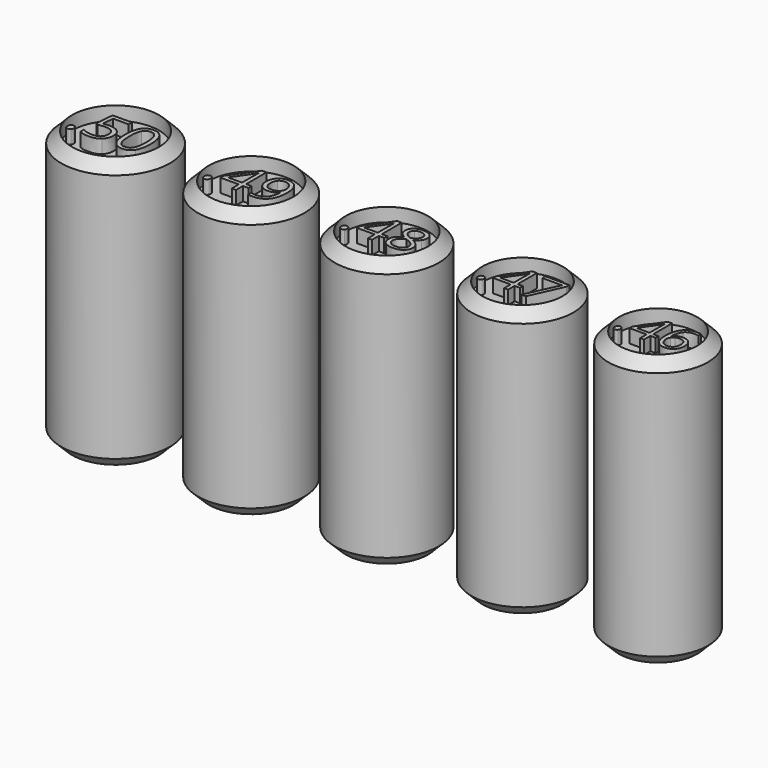
from build123d import *

# Parameters (mm, degrees)
F0_R      = 6.35
F1_DEPTH  = 31.75
F0_R_2    = 6.223
F0_R_3    = 6.096
F0_R_4    = 5.969
F0_R_5    = 5.842
F2_SIZE   = 1.27
F2_2_SIZE = 1.27
F2_3_SIZE = 1.27
F2_4_SIZE = 1.27
F2_5_SIZE = 1.27
F3_R      = 5.08
F3_R_2    = 4.953
F3_R_3    = 4.826
F3_R_4    = 4.699
F3_R_5    = 4.572
F4_DEPTH  = 1.5875


with BuildPart() as f1:
    # F0 (on Top) → F1 (new body)
    with BuildSketch(Plane.XY):
        with Locations((-31.75, 0)):
            Circle(F0_R)
    extrude(amount=F1_DEPTH)

    # F2
    f2_edges = [f1.edges().sort_by_distance(p)[0] for p in [
        (-25.4, 0, 15.875),
        (-38.1, 0, 0),
        (-38.1, 0, 31.75),
    ]]
    chamfer(f2_edges, length=F2_SIZE)


with BuildPart() as f1b:
    # F0 (on Top) → F1, piece 2 (new body)
    with BuildSketch(Plane.XY):
        with Locations((-15.875, 0)):
            Circle(F0_R_2)
    extrude(amount=F1_DEPTH)

    # F2#2
    f2_2_edges = [f1b.edges().sort_by_distance(p)[0] for p in [
        (-9.652, 0, 15.875),
        (-22.098, 0, 0),
        (-22.098, 0, 31.75),
    ]]
    chamfer(f2_2_edges, length=F2_2_SIZE)


with BuildPart() as f1c:
    # F0 (on Top) → F1, piece 3 (new body)
    with BuildSketch(Plane.XY):
        Circle(F0_R_3)
    extrude(amount=F1_DEPTH)

    # F2#3
    f2_3_edges = [f1c.edges().sort_by_distance(p)[0] for p in [
        (6.096, 0, 15.875),
        (-6.096, 0, 0),
        (-6.096, 0, 31.75),
    ]]
    chamfer(f2_3_edges, length=F2_3_SIZE)


with BuildPart() as f1d:
    # F0 (on Top) → F1, piece 4 (new body)
    with BuildSketch(Plane.XY):
        with Locations((15.875, 0)):
            Circle(F0_R_4)
    extrude(amount=F1_DEPTH)

    # F2#4
    f2_4_edges = [f1d.edges().sort_by_distance(p)[0] for p in [
        (21.844, 0, 15.875),
        (9.906, 0, 0),
        (9.906, 0, 31.75),
    ]]
    chamfer(f2_4_edges, length=F2_4_SIZE)


with BuildPart() as f1e:
    # F0 (on Top) → F1, piece 5 (new body)
    with BuildSketch(Plane.XY):
        with Locations((31.75, 0)):
            Circle(F0_R_5)
    extrude(amount=F1_DEPTH)

    # F2#5
    f2_5_edges = [f1e.edges().sort_by_distance(p)[0] for p in [
        (37.592, 0, 15.875),
        (25.908, 0, 0),
        (25.908, 0, 31.75),
    ]]
    chamfer(f2_5_edges, length=F2_5_SIZE)


with BuildPart() as f4_tool:
    # F3 (on face) → F4 (new body)
    with BuildSketch(Plane.XY.offset(31.75)):
        with Locations((-31.75, 0)):
            Circle(F3_R)
        with BuildLine():
            add(Edge.make_bspline(
                [(-35.7075924729, -2.2838575485), (-35.8115171905, -2.1858998004), (-35.8115171905, -1.9621384468)],
                knots=[0, 0, 0, 1, 1, 1], degree=2))
            add(Edge.make_bspline(
                [(-35.8115171905, -1.9621384468), (-35.8115171905, -1.7532945169), (-35.7165429271, -1.6463863146)],
                knots=[0, 0, 0, 1, 1, 1], degree=2))
            add(Edge.make_bspline(
                [(-35.7165429271, -1.6463863146), (-35.6215686637, -1.5394781124), (-35.4445485707, -1.5394781124)],
                knots=[0, 0, 0, 1, 1, 1], degree=2))
            add(Edge.make_bspline(
                [(-35.4445485707, -1.5394781124), (-35.2645449929, -1.5394781124), (-35.1636037601, -1.6463863146)],
                knots=[0, 0, 0, 1, 1, 1], degree=2))
            add(Edge.make_bspline(
                [(-35.1636037601, -1.6463863146), (-35.0626625273, -1.7532945169), (-35.0626625273, -1.9621384468)],
                knots=[0, 0, 0, 1, 1, 1], degree=2))
            add(Edge.make_bspline(
                [(-35.0626625273, -1.9621384468), (-35.0626625273, -2.1640209125), (-35.1650955025, -2.2729181045)],
                knots=[0, 0, 0, 1, 1, 1], degree=2))
            add(Edge.make_bspline(
                [(-35.1650955025, -2.2729181045), (-35.2675284777, -2.3818152966), (-35.4445485707, -2.3818152966)],
                knots=[0, 0, 0, 1, 1, 1], degree=2))
            add(Edge.make_bspline(
                [(-35.4445485707, -2.3818152966), (-35.6036677554, -2.3818152966), (-35.7075924729, -2.2838575485)],
                knots=[0, 0, 0, 1, 1, 1], degree=2))
        make_face(mode=Mode.SUBTRACT)
        with BuildLine():
            add(Edge.make_bspline(
                [(-33.5709201704, 0.4127153854), (-33.2138964996, 0.4843190186), (-32.8588618187, 0.4843190186)],
                knots=[0, 0, 0, 1, 1, 1], degree=2))
            add(Edge.make_bspline(
                [(-32.8588618187, 0.4843190186), (-32.1408364975, 0.4843190186), (-31.729115607, 0.1282898427)],
                knots=[0, 0, 0, 1, 1, 1], degree=2))
            add(Edge.make_bspline(
                [(-31.729115607, 0.1282898427), (-31.3173947165, -0.2277393332), (-31.3173947165, -0.8463151638)],
                knots=[0, 0, 0, 1, 1, 1], degree=2))
            add(Edge.make_bspline(
                [(-31.3173947165, -0.8463151638), (-31.3173947165, -1.5514120512), (-31.7664091659, -1.9526907452)],
                knots=[0, 0, 0, 1, 1, 1], degree=2))
            add(Edge.make_bspline(
                [(-31.7664091659, -1.9526907452), (-32.2154236154, -2.3539694392), (-33.0050525696, -2.3539694392)],
                knots=[0, 0, 0, 1, 1, 1], degree=2))
            add(Edge.make_bspline(
                [(-33.0050525696, -2.3539694392), (-33.772802636, -2.3539694392), (-34.1765675673, -2.1083291978)],
                knots=[0, 0, 0, 1, 1, 1], degree=2))
            Line((-34.1765675673, -2.1083291978), (-34.1765675673, -1.6110817455))
            add(Edge.make_bspline(
                [(-34.1765675673, -1.6110817455), (-33.9597676781, -1.7503110321), (-33.6365568341, -1.8298706245)],
                knots=[0, 0, 0, 1, 1, 1], degree=2))
            add(Edge.make_bspline(
                [(-33.6365568341, -1.8298706245), (-33.3133459901, -1.9094302169), (-32.9990856002, -1.9094302169)],
                knots=[0, 0, 0, 1, 1, 1], degree=2))
            add(Edge.make_bspline(
                [(-32.9990856002, -1.9094302169), (-32.4521134027, -1.9094302169), (-32.1492897042, -1.6513587891)],
                knots=[0, 0, 0, 1, 1, 1], degree=2))
            add(Edge.make_bspline(
                [(-32.1492897042, -1.6513587891), (-31.8464660057, -1.3932873614), (-31.8464660057, -0.9049903632)],
                knots=[0, 0, 0, 1, 1, 1], degree=2))
            add(Edge.make_bspline(
                [(-31.8464660057, -0.9049903632), (-31.8464660057, 0.0457467656), (-33.0110195391, 0.0457467656)],
                knots=[0, 0, 0, 1, 1, 1], degree=2))
            add(Edge.make_bspline(
                [(-33.0110195391, 0.0457467656), (-33.3063845257, 0.0457467656), (-33.8006484933, -0.0447522707)],
                knots=[0, 0, 0, 1, 1, 1], degree=2))
            Line((-33.8006484933, -0.0447522707), (-34.0681676227, 0.1263008529))
            Line((-34.0681676227, 0.1263008529), (-33.8971144991, 2.252530959))
            Line((-33.8971144991, 2.252530959), (-31.6376220758, 2.252530959))
            Line((-31.6376220758, 2.252530959), (-31.6376220758, 1.7771623946))
            Line((-31.6376220758, 1.7771623946), (-33.4555587614, 1.7771623946))
            Line((-33.4555587614, 1.7771623946), (-33.5709201704, 0.4127153854))
        make_face(mode=Mode.SUBTRACT)
        with BuildLine():
            add(Edge.make_bspline(
                [(-28.0126881484, 1.7239569172), (-27.6288131152, 1.1237792422), (-27.6288131152, -0.0129284338)],
                knots=[0, 0, 0, 1, 1, 1], degree=2))
            add(Edge.make_bspline(
                [(-27.6288131152, -0.0129284338), (-27.6288131152, -1.1914048957), (-28.0002569621, -1.7726871675)],
                knots=[0, 0, 0, 1, 1, 1], degree=2))
            add(Edge.make_bspline(
                [(-28.0002569621, -1.7726871675), (-28.371700809, -2.3539694392), (-29.1364673907, -2.3539694392)],
                knots=[0, 0, 0, 1, 1, 1], degree=2))
            add(Edge.make_bspline(
                [(-29.1364673907, -2.3539694392), (-29.8694101354, -2.3539694392), (-30.2517934262, -1.7587642388)],
                knots=[0, 0, 0, 1, 1, 1], degree=2))
            add(Edge.make_bspline(
                [(-30.2517934262, -1.7587642388), (-30.634176717, -1.1635590384), (-30.634176717, -0.0129284338)],
                knots=[0, 0, 0, 1, 1, 1], degree=2))
            add(Edge.make_bspline(
                [(-30.634176717, -0.0129284338), (-30.634176717, 1.1735039875), (-30.2642246125, 1.7488192898)],
                knots=[0, 0, 0, 1, 1, 1], degree=2))
            add(Edge.make_bspline(
                [(-30.2642246125, 1.7488192898), (-29.894272508, 2.3241345921), (-29.1364673907, 2.3241345921)],
                knots=[0, 0, 0, 1, 1, 1], degree=2))
            add(Edge.make_bspline(
                [(-29.1364673907, 2.3241345921), (-28.3965631816, 2.3241345921), (-28.0126881484, 1.7239569172)],
                knots=[0, 0, 0, 1, 1, 1], degree=2))
        make_face(mode=Mode.SUBTRACT)
        with BuildLine():
            add(Edge.make_bspline(
                [(-29.878857837, 1.4275974356), (-30.1120668921, 0.9785829861), (-30.1120668921, -0.0129284338)],
                knots=[0, 0, 0, 1, 1, 1], degree=2))
            add(Edge.make_bspline(
                [(-30.1120668921, -0.0129284338), (-30.1120668921, -1.0044398537), (-29.878857837, -1.4569350353)],
                knots=[0, 0, 0, 1, 1, 1], degree=2))
            add(Edge.make_bspline(
                [(-29.878857837, -1.4569350353), (-29.6456487818, -1.9094302169), (-29.1364673907, -1.9094302169)],
                knots=[0, 0, 0, 1, 1, 1], degree=2))
            add(Edge.make_bspline(
                [(-29.1364673907, -1.9094302169), (-28.6203245352, -1.9094302169), (-28.3891044698, -1.4509680658)],
                knots=[0, 0, 0, 1, 1, 1], degree=2))
            add(Edge.make_bspline(
                [(-28.3891044698, -1.4509680658), (-28.1578844045, -0.9925059148), (-28.1578844045, -0.0129284338)],
                knots=[0, 0, 0, 1, 1, 1], degree=2))
            add(Edge.make_bspline(
                [(-28.1578844045, -0.0129284338), (-28.1578844045, 0.9656545524), (-28.3891044698, 1.4211332187)],
                knots=[0, 0, 0, 1, 1, 1], degree=2))
            add(Edge.make_bspline(
                [(-28.3891044698, 1.4211332187), (-28.6203245352, 1.876611885), (-29.1364673907, 1.876611885)],
                knots=[0, 0, 0, 1, 1, 1], degree=2))
            add(Edge.make_bspline(
                [(-29.1364673907, 1.876611885), (-29.6456487818, 1.876611885), (-29.878857837, 1.4275974356)],
                knots=[0, 0, 0, 1, 1, 1], degree=2))
        make_face()
        with Locations((-15.875, 0)):
            Circle(F3_R_2)
        with BuildLine():
            add(Edge.make_bspline(
                [(-19.7299492008, -2.2316336878), (-19.8314975223, -2.1359158919), (-19.8314975223, -1.9172711805)],
                knots=[0, 0, 0, 1, 1, 1], degree=2))
            add(Edge.make_bspline(
                [(-19.8314975223, -1.9172711805), (-19.8314975223, -1.7132027832), (-19.7386949892, -1.6087391989)],
                knots=[0, 0, 0, 1, 1, 1], degree=2))
            add(Edge.make_bspline(
                [(-19.7386949892, -1.6087391989), (-19.6458924562, -1.5042756145), (-19.4729201956, -1.5042756145)],
                knots=[0, 0, 0, 1, 1, 1], degree=2))
            add(Edge.make_bspline(
                [(-19.4729201956, -1.5042756145), (-19.2970326722, -1.5042756145), (-19.1983996135, -1.6087391989)],
                knots=[0, 0, 0, 1, 1, 1], degree=2))
            add(Edge.make_bspline(
                [(-19.1983996135, -1.6087391989), (-19.0997665548, -1.7132027832), (-19.0997665548, -1.9172711805)],
                knots=[0, 0, 0, 1, 1, 1], degree=2))
            add(Edge.make_bspline(
                [(-19.0997665548, -1.9172711805), (-19.0997665548, -2.1145372979), (-19.1998572449, -2.2209443908)],
                knots=[0, 0, 0, 1, 1, 1], degree=2))
            add(Edge.make_bspline(
                [(-19.1998572449, -2.2209443908), (-19.299947935, -2.3273514837), (-19.4729201956, -2.3273514837)],
                knots=[0, 0, 0, 1, 1, 1], degree=2))
            add(Edge.make_bspline(
                [(-19.4729201956, -2.3273514837), (-19.6284008793, -2.3273514837), (-19.7299492008, -2.2316336878)],
                knots=[0, 0, 0, 1, 1, 1], degree=2))
        make_face(mode=Mode.SUBTRACT)
        Polygon((-15.2069189373, -0.7599118414), (-15.2069189373, -1.2185798583), (-15.8657683344, -1.2185798583), (-15.8657683344, -2.2389218449), (-16.3487302081, -2.2389218449), (-16.3487302081, -1.2185798583), (-18.5079682025, -1.2185798583), (-18.5079682025, -0.7783751726), (-16.4002331845, 2.225317285), (-15.8657683344, 2.225317285), (-15.8657683344, -0.7599118414), align=None, mode=Mode.SUBTRACT)
        with BuildLine():
            add(Edge.make_bspline(
                [(-12.0424011475, 1.3551113336), (-11.8601972213, 0.9105337538), (-11.8601972213, 0.306102596)],
                knots=[0, 0, 0, 1, 1, 1], degree=2))
            add(Edge.make_bspline(
                [(-11.8601972213, 0.306102596), (-11.8601972213, -2.3001423641), (-13.8765873377, -2.3001423641)],
                knots=[0, 0, 0, 1, 1, 1], degree=2))
            add(Edge.make_bspline(
                [(-13.8765873377, -2.3001423641), (-14.2293341388, -2.3001423641), (-14.4353460446, -2.2389218449)],
                knots=[0, 0, 0, 1, 1, 1], degree=2))
            Line((-14.4353460446, -2.2389218449), (-14.4353460446, -1.8045476849))
            add(Edge.make_bspline(
                [(-14.4353460446, -1.8045476849), (-14.1924074764, -1.883259781), (-13.8833896176, -1.883259781)],
                knots=[0, 0, 0, 1, 1, 1], degree=2))
            add(Edge.make_bspline(
                [(-13.8833896176, -1.883259781), (-13.1545739129, -1.883259781), (-12.7823920263, -1.4323657983)],
                knots=[0, 0, 0, 1, 1, 1], degree=2))
            add(Edge.make_bspline(
                [(-12.7823920263, -1.4323657983), (-12.4102101398, -0.9814718157), (-12.3771704945, -0.0495594679)],
                knots=[0, 0, 0, 1, 1, 1], degree=2))
            Line((-12.3771704945, -0.0495594679), (-12.4131254026, -0.0495594679))
            add(Edge.make_bspline(
                [(-12.4131254026, -0.0495594679), (-12.5802671376, -0.3012438246), (-12.8567312282, -0.4334024057)],
                knots=[0, 0, 0, 1, 1, 1], degree=2))
            add(Edge.make_bspline(
                [(-12.8567312282, -0.4334024057), (-13.1331953189, -0.5655609869), (-13.4791398401, -0.5655609869)],
                knots=[0, 0, 0, 1, 1, 1], degree=2))
            add(Edge.make_bspline(
                [(-13.4791398401, -0.5655609869), (-14.0680229295, -0.5655609869), (-14.4144533278, -0.2133000629)],
                knots=[0, 0, 0, 1, 1, 1], degree=2))
            add(Edge.make_bspline(
                [(-14.4144533278, -0.2133000629), (-14.7608837261, 0.138960861), (-14.7608837261, 0.7706011384)],
                knots=[0, 0, 0, 1, 1, 1], degree=2))
            add(Edge.make_bspline(
                [(-14.7608837261, 0.7706011384), (-14.7608837261, 1.4624901808), (-14.3736396483, 1.8633388184)],
                knots=[0, 0, 0, 1, 1, 1], degree=2))
            add(Edge.make_bspline(
                [(-14.3736396483, 1.8633388184), (-13.9863955705, 2.264187456), (-13.3547552931, 2.264187456)],
                knots=[0, 0, 0, 1, 1, 1], degree=2))
            add(Edge.make_bspline(
                [(-13.3547552931, 2.264187456), (-12.9019178019, 2.264187456), (-12.5632614378, 2.0319381847)],
                knots=[0, 0, 0, 1, 1, 1], degree=2))
            add(Edge.make_bspline(
                [(-12.5632614378, 2.0319381847), (-12.2246050737, 1.7996889135), (-12.0424011475, 1.3551113336)],
                knots=[0, 0, 0, 1, 1, 1], degree=2))
        make_face(mode=Mode.SUBTRACT)
        Circle(F3_R_3)
        with BuildLine():
            add(Edge.make_bspline(
                [(-3.7578389721, -2.1721311853), (-3.8566796901, -2.0789655325), (-3.8566796901, -1.8661505895)],
                knots=[0, 0, 0, 1, 1, 1], degree=2))
            add(Edge.make_bspline(
                [(-3.8566796901, -1.8661505895), (-3.8566796901, -1.6675233093), (-3.7663515698, -1.5658450587)],
                knots=[0, 0, 0, 1, 1, 1], degree=2))
            add(Edge.make_bspline(
                [(-3.7663515698, -1.5658450587), (-3.6760234495, -1.4641668081), (-3.5076631835, -1.4641668081)],
                knots=[0, 0, 0, 1, 1, 1], degree=2))
            add(Edge.make_bspline(
                [(-3.5076631835, -1.4641668081), (-3.3364653848, -1.4641668081), (-3.2404621994, -1.5658450587)],
                knots=[0, 0, 0, 1, 1, 1], degree=2))
            add(Edge.make_bspline(
                [(-3.2404621994, -1.5658450587), (-3.144459014, -1.6675233093), (-3.144459014, -1.8661505895)],
                knots=[0, 0, 0, 1, 1, 1], degree=2))
            add(Edge.make_bspline(
                [(-3.144459014, -1.8661505895), (-3.144459014, -2.0581569603), (-3.2418809657, -2.1617268992)],
                knots=[0, 0, 0, 1, 1, 1], degree=2))
            add(Edge.make_bspline(
                [(-3.2418809657, -2.1617268992), (-3.3393029174, -2.2652968382), (-3.5076631835, -2.2652968382)],
                knots=[0, 0, 0, 1, 1, 1], degree=2))
            add(Edge.make_bspline(
                [(-3.5076631835, -2.2652968382), (-3.6589982541, -2.2652968382), (-3.7578389721, -2.1721311853)],
                knots=[0, 0, 0, 1, 1, 1], degree=2))
        make_face(mode=Mode.SUBTRACT)
        Polygon((0.6445928164, -0.7396501576), (0.6445928164, -1.1860886159), (0.0033104547, -1.1860886159), (0.0033104547, -2.1792250168), (-0.4667741084, -2.1792250168), (-0.4667741084, -1.1860886159), (-2.5684399015, -1.1860886159), (-2.5684399015, -0.7576211972), (-0.5169038506, 2.1659831981), (0.0033104547, 2.1659831981), (0.0033104547, -0.7396501576), align=None, mode=Mode.SUBTRACT)
        with BuildLine():
            add(Edge.make_bspline(
                [(1.5620616819, 1.9247929293), (1.9091865002, 2.2038169658), (2.491826522, 2.2038169658)],
                knots=[0, 0, 0, 1, 1, 1], degree=2))
            add(Edge.make_bspline(
                [(2.491826522, 2.2038169658), (3.0829791416, 2.2038169658), (3.4286851935, 1.9290492282)],
                knots=[0, 0, 0, 1, 1, 1], degree=2))
            add(Edge.make_bspline(
                [(3.4286851935, 1.9290492282), (3.7743912454, 1.6542814906), (3.7743912454, 1.1700092647)],
                knots=[0, 0, 0, 1, 1, 1], degree=2))
            add(Edge.make_bspline(
                [(3.7743912454, 1.1700092647), (3.7743912454, 0.850313928), (3.5767098094, 0.5873692428)],
                knots=[0, 0, 0, 1, 1, 1], degree=2))
            add(Edge.make_bspline(
                [(3.5767098094, 0.5873692428), (3.3790283735, 0.3244245576), (2.9439400455, 0.108772082)],
                knots=[0, 0, 0, 1, 1, 1], degree=2))
            add(Edge.make_bspline(
                [(2.9439400455, 0.108772082), (3.4698294158, -0.1428224729), (3.6916298787, -0.4190089768)],
                knots=[0, 0, 0, 1, 1, 1], degree=2))
            add(Edge.make_bspline(
                [(3.6916298787, -0.4190089768), (3.9134303415, -0.6951954806), (3.9134303415, -1.0593454943)],
                knots=[0, 0, 0, 1, 1, 1], degree=2))
            add(Edge.make_bspline(
                [(3.9134303415, -1.0593454943), (3.9134303415, -1.5965849949), (3.5379301976, -1.9176990979)],
                knots=[0, 0, 0, 1, 1, 1], degree=2))
            add(Edge.make_bspline(
                [(3.5379301976, -1.9176990979), (3.1624300536, -2.2388132008), (2.5097975616, -2.2388132008)],
                knots=[0, 0, 0, 1, 1, 1], degree=2))
            add(Edge.make_bspline(
                [(2.5097975616, -2.2388132008), (1.8183854578, -2.2388132008), (1.4457228464, -1.9356701375)],
                knots=[0, 0, 0, 1, 1, 1], degree=2))
            add(Edge.make_bspline(
                [(1.4457228464, -1.9356701375), (1.073060235, -1.6325270742), (1.073060235, -1.0763706897)],
                knots=[0, 0, 0, 1, 1, 1], degree=2))
            add(Edge.make_bspline(
                [(1.073060235, -1.0763706897), (1.073060235, -0.3348288437), (1.9772872819, 0.0794509121)],
                knots=[0, 0, 0, 1, 1, 1], degree=2))
            add(Edge.make_bspline(
                [(1.9772872819, 0.0794509121), (1.5696284355, 0.3092910506), (1.3922826496, 0.5769649567)],
                knots=[0, 0, 0, 1, 1, 1], degree=2))
            add(Edge.make_bspline(
                [(1.3922826496, 0.5769649567), (1.2149368637, 0.8446388628), (1.2149368637, 1.1756843298)],
                knots=[0, 0, 0, 1, 1, 1], degree=2))
            add(Edge.make_bspline(
                [(1.2149368637, 1.1756843298), (1.2149368637, 1.6457688929), (1.5620616819, 1.9247929293)],
                knots=[0, 0, 0, 1, 1, 1], degree=2))
        make_face(mode=Mode.SUBTRACT)
        with Locations((15.875, 0)):
            Circle(F3_R_4)
        with BuildLine():
            add(Edge.make_bspline(
                [(12.215208755, -2.1138608134), (12.1190195737, -2.0231944558), (12.1190195737, -1.816088563)],
                knots=[0, 0, 0, 1, 1, 1], degree=2))
            add(Edge.make_bspline(
                [(12.1190195737, -1.816088563), (12.1190195737, -1.6227897296), (12.2069245193, -1.5238391363)],
                knots=[0, 0, 0, 1, 1, 1], degree=2))
            add(Edge.make_bspline(
                [(12.2069245193, -1.5238391363), (12.294829465, -1.4248885431), (12.458673238, -1.4248885431)],
                knots=[0, 0, 0, 1, 1, 1], degree=2))
            add(Edge.make_bspline(
                [(12.458673238, -1.4248885431), (12.625278423, -1.4248885431), (12.7187061924, -1.5238391363)],
                knots=[0, 0, 0, 1, 1, 1], degree=2))
            add(Edge.make_bspline(
                [(12.7187061924, -1.5238391363), (12.8121339619, -1.6227897296), (12.8121339619, -1.816088563)],
                knots=[0, 0, 0, 1, 1, 1], degree=2))
            add(Edge.make_bspline(
                [(12.8121339619, -1.816088563), (12.8121339619, -2.0029441019), (12.7173254865, -2.1037356364)],
                knots=[0, 0, 0, 1, 1, 1], degree=2))
            add(Edge.make_bspline(
                [(12.7173254865, -2.1037356364), (12.6225170111, -2.2045271709), (12.458673238, -2.2045271709)],
                knots=[0, 0, 0, 1, 1, 1], degree=2))
            add(Edge.make_bspline(
                [(12.458673238, -2.2045271709), (12.3113979364, -2.2045271709), (12.215208755, -2.1138608134)],
                knots=[0, 0, 0, 1, 1, 1], degree=2))
        make_face(mode=Mode.SUBTRACT)
        Polygon((16.4995393259, -0.7198080366), (16.4995393259, -1.1542701764), (15.8754602353, -1.1542701764), (15.8754602353, -2.1207643432), (15.4179863297, -2.1207643432), (15.4179863297, -1.1542701764), (13.3727005786, -1.1542701764), (13.3727005786, -0.7372969787), (15.369201386, 2.1078777543), (15.8754602353, 2.1078777543), (15.8754602353, -0.7198080366), align=None, mode=Mode.SUBTRACT)
        Polygon((17.9667695181, -2.1207643432), (17.437498903, -2.1207643432), (19.1799498151, 1.6448810248), (16.8879779339, 1.6448810248), (16.8879779339, 2.0848659884), (19.6862086644, 2.0848659884), (19.6862086644, 1.7019502042), align=None, mode=Mode.SUBTRACT)
        with Locations((31.75, 0)):
            Circle(F3_R_5)
        with BuildLine():
            add(Edge.make_bspline(
                [(28.1873491822, -2.0543948784), (28.0938659404, -1.9662790954), (28.0938659404, -1.7649993882)],
                knots=[0, 0, 0, 1, 1, 1], degree=2))
            add(Edge.make_bspline(
                [(28.0938659404, -1.7649993882), (28.0938659404, -1.5771383281), (28.1792979939, -1.4809713569)],
                knots=[0, 0, 0, 1, 1, 1], degree=2))
            add(Edge.make_bspline(
                [(28.1792979939, -1.4809713569), (28.2647300474, -1.3848043857), (28.4239646602, -1.3848043857)],
                knots=[0, 0, 0, 1, 1, 1], degree=2))
            add(Edge.make_bspline(
                [(28.4239646602, -1.3848043857), (28.5858830025, -1.3848043857), (28.6766825148, -1.4809713569)],
                knots=[0, 0, 0, 1, 1, 1], degree=2))
            add(Edge.make_bspline(
                [(28.6766825148, -1.4809713569), (28.7674820272, -1.5771383281), (28.7674820272, -1.7649993882)],
                knots=[0, 0, 0, 1, 1, 1], degree=2))
            add(Edge.make_bspline(
                [(28.7674820272, -1.7649993882), (28.7674820272, -1.946598413), (28.6753406501, -2.0445545371)],
                knots=[0, 0, 0, 1, 1, 1], degree=2))
            add(Edge.make_bspline(
                [(28.6753406501, -2.0445545371), (28.583199273, -2.1425106613), (28.4239646602, -2.1425106613)],
                knots=[0, 0, 0, 1, 1, 1], degree=2))
            add(Edge.make_bspline(
                [(28.4239646602, -2.1425106613), (28.280832424, -2.1425106613), (28.1873491822, -2.0543948784)],
                knots=[0, 0, 0, 1, 1, 1], degree=2))
        make_face(mode=Mode.SUBTRACT)
        Polygon((32.3511553922, -0.6995588047), (32.3511553922, -1.1217989016), (31.7446325411, -1.1217989016), (31.7446325411, -2.0611042019), (31.3000280323, -2.0611042019), (31.3000280323, -1.1217989016), (29.3122791014, -1.1217989016), (29.3122791014, -0.7165557577), (31.252615479, 2.0485801313), (31.7446325411, 2.0485801313), (31.7446325411, -0.6995588047), align=None, mode=Mode.SUBTRACT)
        with BuildLine():
            add(Edge.make_bspline(
                [(33.1647726976, -1.640653258), (32.7930761716, -1.163843996), (32.7930761716, -0.3139963433)],
                knots=[0, 0, 0, 1, 1, 1], degree=2))
            add(Edge.make_bspline(
                [(32.7930761716, -0.3139963433), (32.7930761716, 0.8909981706), (33.2613869571, 1.4876806805)],
                knots=[0, 0, 0, 1, 1, 1], degree=2))
            add(Edge.make_bspline(
                [(33.2613869571, 1.4876806805), (33.7296977426, 2.0843631903), (34.646638631, 2.0843631903)],
                knots=[0, 0, 0, 1, 1, 1], degree=2))
            add(Edge.make_bspline(
                [(34.646638631, 2.0843631903), (34.9624241273, 2.0843631903), (35.144023152, 2.0315831782)],
                knots=[0, 0, 0, 1, 1, 1], degree=2))
            Line((35.144023152, 2.0315831782), (35.144023152, 1.6317074932))
            add(Edge.make_bspline(
                [(35.144023152, 1.6317074932), (34.9284302211, 1.7014844584), (34.6520060899, 1.7014844584)],
                knots=[0, 0, 0, 1, 1, 1], degree=2))
            add(Edge.make_bspline(
                [(34.6520060899, 1.7014844584), (33.9944923796, 1.7014844584), (33.647843995, 1.2922157204)],
                knots=[0, 0, 0, 1, 1, 1], degree=2))
            add(Edge.make_bspline(
                [(33.647843995, 1.2922157204), (33.3011956103, 0.8829469823), (33.2680962807, 0.0044728824)],
                knots=[0, 0, 0, 1, 1, 1], degree=2))
            Line((33.2680962807, 0.0044728824), (33.3011956103, 0.0044728824))
            add(Edge.make_bspline(
                [(33.3011956103, 0.0044728824), (33.6089299183, 0.4857550268), (34.2744948168, 0.4857550268)],
                knots=[0, 0, 0, 1, 1, 1], degree=2))
            add(Edge.make_bspline(
                [(34.2744948168, 0.4857550268), (34.8255539263, 0.4857550268), (35.1426812873, 0.1529725775)],
                knots=[0, 0, 0, 1, 1, 1], degree=2))
            add(Edge.make_bspline(
                [(35.1426812873, 0.1529725775), (35.4598086482, -0.1798098718), (35.4598086482, -0.7496550873)],
                knots=[0, 0, 0, 1, 1, 1], degree=2))
            add(Edge.make_bspline(
                [(35.4598086482, -0.7496550873), (35.4598086482, -1.3874881151), (35.1118183988, -1.7524753175)],
                knots=[0, 0, 0, 1, 1, 1], degree=2))
            add(Edge.make_bspline(
                [(35.1118183988, -1.7524753175), (34.7638281495, -2.11746252), (34.1707239455, -2.11746252)],
                knots=[0, 0, 0, 1, 1, 1], degree=2))
            add(Edge.make_bspline(
                [(34.1707239455, -2.11746252), (33.5364692237, -2.11746252), (33.1647726976, -1.640653258)],
                knots=[0, 0, 0, 1, 1, 1], degree=2))
        make_face(mode=Mode.SUBTRACT)
        with BuildLine():
            add(Edge.make_bspline(
                [(33.6970457012, -1.5775856164), (33.9023510026, -1.7229542938), (34.1653564867, -1.7229542938)],
                knots=[0, 0, 0, 1, 1, 1], degree=2))
            add(Edge.make_bspline(
                [(34.1653564867, -1.7229542938), (34.5625484422, -1.7229542938), (34.781719679, -1.4724728804)],
                knots=[0, 0, 0, 1, 1, 1], degree=2))
            add(Edge.make_bspline(
                [(34.781719679, -1.4724728804), (35.0008909157, -1.221991467), (35.0008909157, -0.7496550873)],
                knots=[0, 0, 0, 1, 1, 1], degree=2))
            add(Edge.make_bspline(
                [(35.0008909157, -0.7496550873), (35.0008909157, -0.3444119435), (34.7969274791, -0.1122693478)],
                knots=[0, 0, 0, 1, 1, 1], degree=2))
            add(Edge.make_bspline(
                [(34.7969274791, -0.1122693478), (34.5929640424, 0.1198732479), (34.1877208986, 0.1198732479)],
                knots=[0, 0, 0, 1, 1, 1], degree=2))
            add(Edge.make_bspline(
                [(34.1877208986, 0.1198732479), (33.9363449087, 0.1198732479), (33.7265667249, 0.0161023766)],
                knots=[0, 0, 0, 1, 1, 1], degree=2))
            add(Edge.make_bspline(
                [(33.7265667249, 0.0161023766), (33.5167885412, -0.0876684947), (33.3924424109, -0.2692675194)],
                knots=[0, 0, 0, 1, 1, 1], degree=2))
            add(Edge.make_bspline(
                [(33.3924424109, -0.2692675194), (33.2680962807, -0.4508665442), (33.2680962807, -0.6467787925)],
                knots=[0, 0, 0, 1, 1, 1], degree=2))
            add(Edge.make_bspline(
                [(33.2680962807, -0.6467787925), (33.2680962807, -0.934832418), (33.3799183403, -1.1835246785)],
                knots=[0, 0, 0, 1, 1, 1], degree=2))
            add(Edge.make_bspline(
                [(33.3799183403, -1.1835246785), (33.4917403998, -1.4322169389), (33.6970457012, -1.5775856164)],
                knots=[0, 0, 0, 1, 1, 1], degree=2))
        make_face()
        with BuildLine():
            Line((29.7765642928, -0.6995588047), (31.3000280323, -0.6995588047))
            Line((31.3000280323, -0.6995588047), (31.3000280323, 0.6593028632))
            add(Edge.make_bspline(
                [(31.3000280323, 0.6593028632), (31.3000280323, 1.0591785482), (31.3286544795, 1.561930528)],
                knots=[0, 0, 0, 1, 1, 1], degree=2))
            Line((31.3286544795, 1.561930528), (31.3062900676, 1.561930528))
            add(Edge.make_bspline(
                [(31.3062900676, 1.561930528), (31.1721035962, 1.2935575851), (31.0540195013, 1.1173260192)],
                knots=[0, 0, 0, 1, 1, 1], degree=2))
            Line((31.0540195013, 1.1173260192), (29.7765642928, -0.6995588047))
        make_face()
        with BuildLine():
            Line((13.8504248382, -0.7198080366), (15.4179863297, -0.7198080366))
            Line((15.4179863297, -0.7198080366), (15.4179863297, 0.678386858))
            add(Edge.make_bspline(
                [(15.4179863297, 0.678386858), (15.4179863297, 1.0898372319), (15.44744139, 1.6071417288)],
                knots=[0, 0, 0, 1, 1, 1], degree=2))
            Line((15.44744139, 1.6071417288), (15.4244296241, 1.6071417288))
            add(Edge.make_bspline(
                [(15.4244296241, 1.6071417288), (15.2863590289, 1.3310005383), (15.1648569051, 1.1496678232)],
                knots=[0, 0, 0, 1, 1, 1], degree=2))
            Line((15.1648569051, 1.1496678232), (13.8504248382, -0.7198080366))
        make_face()
        with BuildLine():
            add(Edge.make_bspline(
                [(1.7559597412, -0.5400770332), (1.5582783052, -0.7689713275), (1.5582783052, -1.0886666642)],
                knots=[0, 0, 0, 1, 1, 1], degree=2))
            add(Edge.make_bspline(
                [(1.5582783052, -1.0886666642), (1.5582783052, -1.4433582359), (1.804670717, -1.641512594)],
                knots=[0, 0, 0, 1, 1, 1], degree=2))
            add(Edge.make_bspline(
                [(1.804670717, -1.641512594), (2.0510631289, -1.8396669521), (2.4975015872, -1.8396669521)],
                knots=[0, 0, 0, 1, 1, 1], degree=2))
            add(Edge.make_bspline(
                [(2.4975015872, -1.8396669521), (2.9382649803, -1.8396669521), (3.183711548, -1.6325270742)],
                knots=[0, 0, 0, 1, 1, 1], degree=2))
            add(Edge.make_bspline(
                [(3.183711548, -1.6325270742), (3.4291581156, -1.4253871963), (3.4291581156, -1.0650205594)],
                knots=[0, 0, 0, 1, 1, 1], degree=2))
            add(Edge.make_bspline(
                [(3.4291581156, -1.0650205594), (3.4291581156, -0.7784297694), (3.1983721329, -0.5552105403)],
                knots=[0, 0, 0, 1, 1, 1], degree=2))
            add(Edge.make_bspline(
                [(3.1983721329, -0.5552105403), (2.9675861502, -0.3319913112), (2.3944045703, -0.1220139007)],
                knots=[0, 0, 0, 1, 1, 1], degree=2))
            add(Edge.make_bspline(
                [(2.3944045703, -0.1220139007), (1.9536411772, -0.3111827389), (1.7559597412, -0.5400770332)],
                knots=[0, 0, 0, 1, 1, 1], degree=2))
        make_face()
        with BuildLine():
            add(Edge.make_bspline(
                [(3.0758853101, 1.6296895416), (2.8616516008, 1.8056165612), (2.4861514569, 1.8056165612)],
                knots=[0, 0, 0, 1, 1, 1], degree=2))
            add(Edge.make_bspline(
                [(2.4861514569, 1.8056165612), (2.1163263781, 1.8056165612), (1.9063489676, 1.6282707753)],
                knots=[0, 0, 0, 1, 1, 1], degree=2))
            add(Edge.make_bspline(
                [(1.9063489676, 1.6282707753), (1.6963715571, 1.4509249895), (1.6963715571, 1.1548757576)],
                knots=[0, 0, 0, 1, 1, 1], degree=2))
            add(Edge.make_bspline(
                [(1.6963715571, 1.1548757576), (1.6963715571, 0.8834184747), (1.8708798104, 0.6881016492)],
                knots=[0, 0, 0, 1, 1, 1], degree=2))
            add(Edge.make_bspline(
                [(1.8708798104, 0.6881016492), (2.0453880637, 0.4927848237), (2.5154726268, 0.2979409203)],
                knots=[0, 0, 0, 1, 1, 1], degree=2))
            add(Edge.make_bspline(
                [(2.5154726268, 0.2979409203), (2.9382649803, 0.474813784), (3.1141919999, 0.6791161294)],
                knots=[0, 0, 0, 1, 1, 1], degree=2))
            add(Edge.make_bspline(
                [(3.1141919999, 0.6791161294), (3.2901190195, 0.8834184747), (3.2901190195, 1.1548757576)],
                knots=[0, 0, 0, 1, 1, 1], degree=2))
            add(Edge.make_bspline(
                [(3.2901190195, 1.1548757576), (3.2901190195, 1.453762522), (3.0758853101, 1.6296895416)],
                knots=[0, 0, 0, 1, 1, 1], degree=2))
        make_face()
        with BuildLine():
            Line((-2.0775467662, -0.7396501576), (-0.4667741084, -0.7396501576))
            Line((-0.4667741084, -0.7396501576), (-0.4667741084, 0.697087169))
            add(Edge.make_bspline(
                [(-0.4667741084, 0.697087169), (-0.4667741084, 1.1198795225), (-0.4365070943, 1.651443958)],
                knots=[0, 0, 0, 1, 1, 1], degree=2))
            Line((-0.4365070943, 1.651443958), (-0.4601531991, 1.651443958))
            add(Edge.make_bspline(
                [(-0.4601531991, 1.651443958), (-0.6020298278, 1.3676907006), (-0.726881261, 1.1813593949)],
                knots=[0, 0, 0, 1, 1, 1], degree=2))
            Line((-0.726881261, 1.1813593949), (-2.0775467662, -0.7396501576))
        make_face()
        with BuildLine():
            Line((-18.0036277349, -0.7599118414), (-16.3487302081, -0.7599118414))
            Line((-16.3487302081, -0.7599118414), (-16.3487302081, 0.7161828992))
            add(Edge.make_bspline(
                [(-16.3487302081, 0.7161828992), (-16.3487302081, 1.1505570592), (-16.3176340713, 1.6966829606)],
                knots=[0, 0, 0, 1, 1, 1], degree=2))
            Line((-16.3176340713, 1.6966829606), (-16.3419279282, 1.6966829606))
            add(Edge.make_bspline(
                [(-16.3419279282, 1.6966829606), (-16.4876910691, 1.4051566787), (-16.6159626331, 1.2137210869)],
                knots=[0, 0, 0, 1, 1, 1], degree=2))
            Line((-16.6159626331, 1.2137210869), (-18.0036277349, -0.7599118414))
        make_face()
        with BuildLine():
            add(Edge.make_bspline(
                [(-12.8431266684, 1.6787055065), (-13.066144274, 1.8337003131), (-13.3547552931, 1.8337003131)],
                knots=[0, 0, 0, 1, 1, 1], degree=2))
            add(Edge.make_bspline(
                [(-13.3547552931, 1.8337003131), (-13.7891294531, 1.8337003131), (-14.0257516186, 1.5543209596)],
                knots=[0, 0, 0, 1, 1, 1], degree=2))
            add(Edge.make_bspline(
                [(-14.0257516186, 1.5543209596), (-14.262373784, 1.2749416061), (-14.262373784, 0.7764316641)],
                knots=[0, 0, 0, 1, 1, 1], degree=2))
            add(Edge.make_bspline(
                [(-14.262373784, 0.7764316641), (-14.262373784, 0.3391422413), (-14.0437290726, 0.088915516)],
                knots=[0, 0, 0, 1, 1, 1], degree=2))
            add(Edge.make_bspline(
                [(-14.0437290726, 0.088915516), (-13.8250843612, -0.1613112093), (-13.3790491499, -0.1613112093)],
                knots=[0, 0, 0, 1, 1, 1], degree=2))
            add(Edge.make_bspline(
                [(-13.3790491499, -0.1613112093), (-13.1020991821, -0.1613112093), (-12.8698499109, -0.0490735908)],
                knots=[0, 0, 0, 1, 1, 1], degree=2))
            add(Edge.make_bspline(
                [(-12.8698499109, -0.0490735908), (-12.6376006397, 0.0631640277), (-12.5039844271, 0.2575148823)],
                knots=[0, 0, 0, 1, 1, 1], degree=2))
            add(Edge.make_bspline(
                [(-12.5039844271, 0.2575148823), (-12.3703682146, 0.4518657369), (-12.3703682146, 0.6646799227)],
                knots=[0, 0, 0, 1, 1, 1], degree=2))
            add(Edge.make_bspline(
                [(-12.3703682146, 0.6646799227), (-12.3703682146, 0.9834153242), (-12.4952386387, 1.2535630121)],
                knots=[0, 0, 0, 1, 1, 1], degree=2))
            add(Edge.make_bspline(
                [(-12.4952386387, 1.2535630121), (-12.6201090628, 1.5237107), (-12.8431266684, 1.6787055065)],
                knots=[0, 0, 0, 1, 1, 1], degree=2))
        make_face()
    extrude(amount=-F4_DEPTH)


with BuildPart() as f1_1:
    add(f1.part)

    # F4: cut by f4_tool
    add(f4_tool.part, mode=Mode.SUBTRACT)


with BuildPart() as f1b_1:
    add(f1b.part)

    # F4: cut by f4_tool
    add(f4_tool.part, mode=Mode.SUBTRACT)


with BuildPart() as f1c_1:
    add(f1c.part)

    # F4: cut by f4_tool
    add(f4_tool.part, mode=Mode.SUBTRACT)


with BuildPart() as f1d_1:
    add(f1d.part)

    # F4: cut by f4_tool
    add(f4_tool.part, mode=Mode.SUBTRACT)


with BuildPart() as f1e_1:
    add(f1e.part)

    # F4: cut by f4_tool
    add(f4_tool.part, mode=Mode.SUBTRACT)


solid = Compound([f1_1.part, f1b_1.part, f1c_1.part, f1d_1.part, f1e_1.part])
